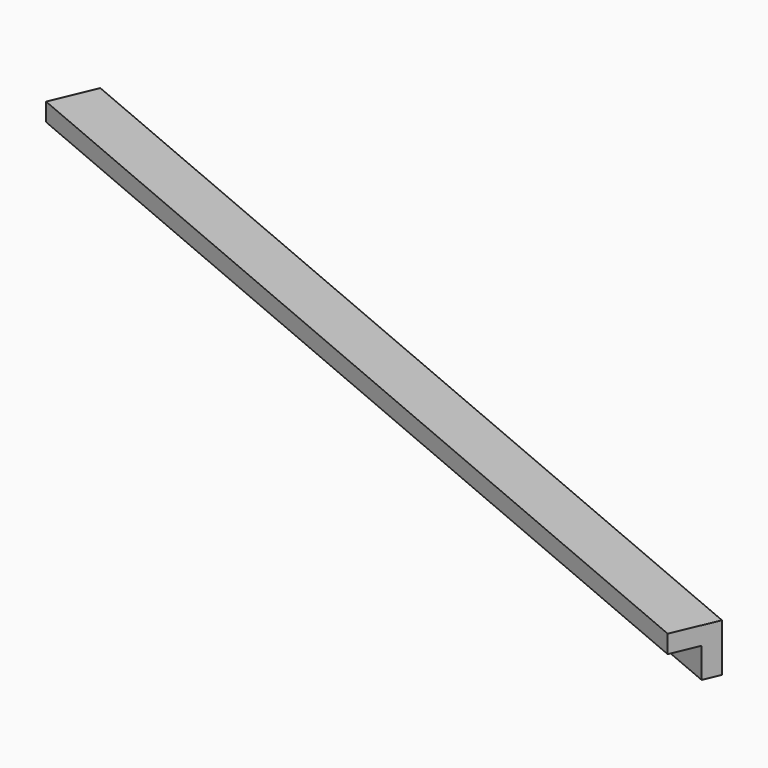
from build123d import *

# Parameters (mm, degrees)
BOX117_W               = 0.8
BOX117_H               = 17
BOX117_DEPTH           = 0.8
BOX118_W               = 0.8
BOX118_H               = 17
BOX118_DEPTH           = 0.8
CUT062_PLACEMENT_ANGLE = 67


with BuildPart() as cubo117:
    # Box117 → Box117 (new body)
    with BuildSketch(Plane.XY):
        with Locations((0.4, 8.5)):
            Rectangle(BOX117_W, BOX117_H)
    extrude(amount=BOX117_DEPTH)


with BuildPart() as obj1:
    # Box118 → Box118 (new body)
    with BuildSketch(Plane(origin=(0.3, 0, 0.3), x_dir=(1, 0, 0), z_dir=(0, 0, 1))):
        with Locations((0.4, 8.5)):
            Rectangle(BOX118_W, BOX118_H)
    extrude(amount=BOX118_DEPTH)

    # Cut062: cut Cubo117
    add(cubo117.part, mode=Mode.SUBTRACT)


with BuildPart() as obj1_1:
    # Cut062 placement: moved
    add(obj1.part.moved(Location((-199.6, 86, -1.47))).rotate(Axis((-199.6, 86, -1.47), (0, 0, 1)), CUT062_PLACEMENT_ANGLE))


solid = obj1_1.part
